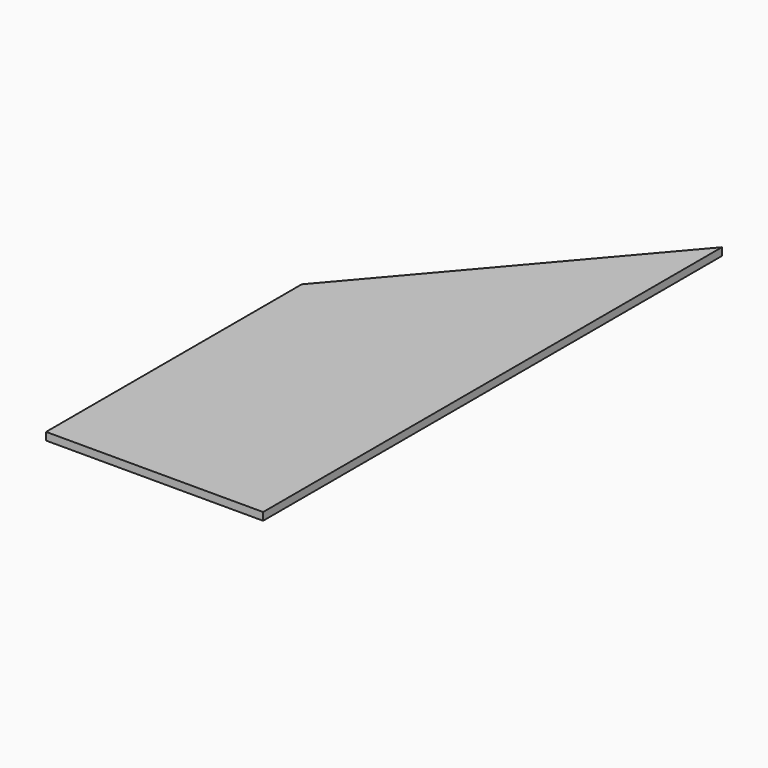
from build123d import *

# Parameters (mm, degrees)
PAD_DEPTH = 19


with BuildPart() as part:
    # Sketch → Pad (new body)
    with BuildSketch(Plane.XY):
        Polygon((0, 0), (0, 1413.693037), (-535, 787.687882), (-535, 0), align=None)
    extrude(amount=PAD_DEPTH)


solid = part.part
